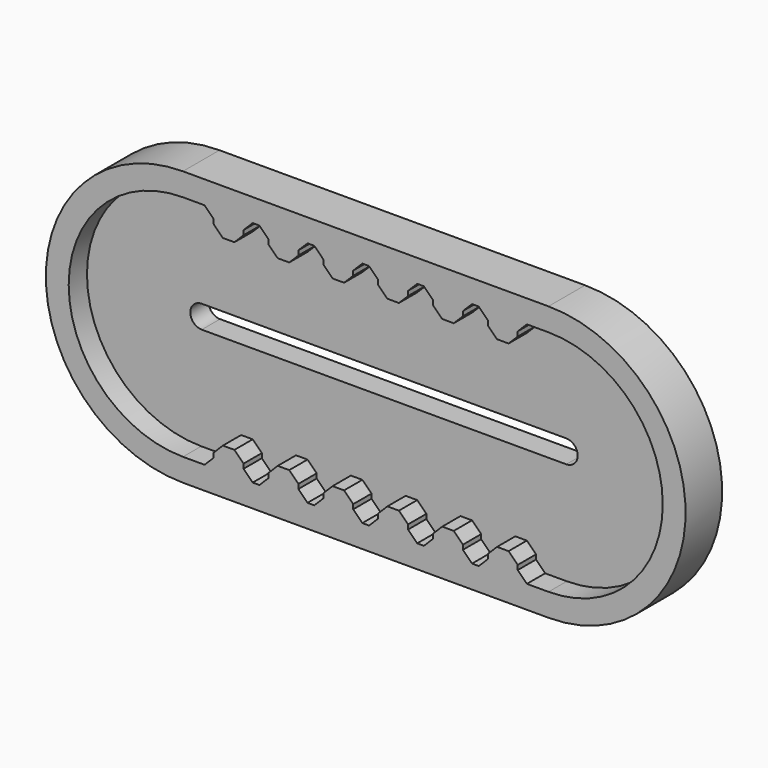
from build123d import *

# Parameters (mm, degrees)
F1_DEPTH = 6.35
F2_DEPTH = 12.7
F4_DEPTH = 6.35
F5_SIZE  = 2.54
F3_W     = 8.288401
F3_H     = 6.35
F6_DEPTH = 6.35
F7_SIZE  = 2.54


with BuildPart() as f1:
    # F0 (on Front) → F1 (new body)
    with BuildSketch(Plane.XZ):
        with BuildLine():
            Line((50.8, 31.75), (-50.8, 31.75))
            ThreePointArc((-50.8, 31.75), (-82.55, 0), (-50.8, -31.75))
            Line((-50.8, -31.75), (50.8, -31.75))
            ThreePointArc((50.8, -31.75), (82.55, 0), (50.8, 31.75))
        make_face()
        with BuildLine():
            ThreePointArc((-50.6538152695, -3.175), (-53.8288152695, 0), (-50.6538152695, 3.175))
            Line((-50.6538152695, 3.175), (50.6538152695, 3.175))
            ThreePointArc((50.6538152695, 3.175), (53.8288152695, 0), (50.6538152695, -3.175))
            Line((50.6538152695, -3.175), (-50.6538152695, -3.175))
        make_face(mode=Mode.SUBTRACT)
    extrude(amount=F1_DEPTH)

    # F0 (on Front) → F2 (join)
    with BuildSketch(Plane.XZ):
        with BuildLine():
            Line((50.8, 38.1), (-50.8, 38.1))
            ThreePointArc((-50.8, 38.1), (-88.9, 0), (-50.8, -38.1))
            Line((-50.8, -38.1), (50.8, -38.1))
            ThreePointArc((50.8, -38.1), (88.9, 0), (50.8, 38.1))
        make_face()
        with BuildLine():
            ThreePointArc((-50.8, -31.75), (-82.55, 0), (-50.8, 31.75))
            Line((-50.8, 31.75), (50.8, 31.75))
            ThreePointArc((50.8, 31.75), (82.55, 0), (50.8, -31.75))
            Line((50.8, -31.75), (-50.8, -31.75))
        make_face(mode=Mode.SUBTRACT)
    extrude(amount=F2_DEPTH)

    # F3 (on face) → F4 (join)
    with BuildSketch(Plane.XZ.offset(6.35)):
        Polygon((-38.1, -31.75), (-33.9557995, -31.75), (-33.9557995, -25.4), (-38.1, -25.4), (-42.2442005, -25.4), (-42.2442005, -31.75), align=None)
        Polygon((-27.0042005, -31.75), (-18.7157995, -31.75), (-18.7157995, -25.4), (-22.86, -25.4), (-27.0042005, -25.4), align=None)
        Polygon((-11.7515005, -31.75), (-3.4757995, -31.75), (-3.4757995, -25.4), (-7.62, -25.4), (-11.7515005, -25.4), align=None)
        Polygon((3.4757995, -25.4), (3.4757995, -31.75), (11.7642005, -31.75), (11.7642005, -25.4), (7.62, -25.4), align=None)
        Polygon((18.7157995, -25.4), (18.7157995, -31.75), (27.0042005, -31.75), (27.0042005, -25.4), (22.86, -25.4), align=None)
        Polygon((33.9557995, -25.4), (33.9557995, -31.75), (38.1, -31.75), (42.2442005, -31.75), (42.2442005, -25.4), (38.1, -25.4), align=None)
        Polygon((33.9557995, -25.4), (33.9557995, -31.75), (38.1, -31.75), (42.2442005, -31.75), (42.2442005, -25.4), (38.1, -25.4), align=None)
        Polygon((33.9557995, -25.4), (33.9557995, -31.75), (38.1, -31.75), (42.2442005, -31.75), (42.2442005, -25.4), (38.1, -25.4), align=None)
    extrude(amount=F4_DEPTH)

    # F5
    f5_edges = [f1.edges().sort_by_distance(p)[0] for p in [
        (-42.244201, -9.525, -25.4),
        (-33.9558, -9.525, -25.4),
        (-27.004201, -9.525, -25.4),
        (-18.7158, -9.525, -25.4),
        (-11.751501, -9.525, -25.4),
        (-3.4758, -9.525, -25.4),
        (3.475799, -9.525, -25.4),
        (11.7642, -9.525, -25.4),
        (18.715799, -9.525, -25.4),
        (27.0042, -9.525, -25.4),
        (33.9558, -9.525, -25.4),
        (42.244201, -9.525, -25.4),
        (33.9558, -9.525, -31.75),
        (42.244201, -9.525, -31.75),
        (27.0042, -9.525, -31.75),
        (11.7642, -9.525, -31.75),
        (18.715799, -9.525, -31.75),
        (3.475799, -9.525, -31.75),
        (-11.751501, -9.525, -31.75),
        (-27.004201, -9.525, -31.75),
        (-3.4758, -9.525, -31.75),
        (-18.7158, -9.525, -31.75),
        (-33.9558, -9.525, -31.75),
        (-42.244201, -9.525, -31.75),
    ]]
    chamfer(f5_edges, length=F5_SIZE)

    # F3 (on face) → F6 (join)
    with BuildSketch(Plane.XZ.offset(6.35)):
        with Locations((-38.1, 28.575)):
            Rectangle(F3_W, F3_H)
        with Locations((-22.86, 28.575)):
            Rectangle(F3_W, F3_H)
        Polygon((-3.4757995, 31.75), (-11.7515005, 31.75), (-11.7515005, 25.4), (-7.62, 25.4), (-3.4757995, 25.4), align=None)
        Polygon((11.7642005, 25.4), (11.7642005, 31.75), (3.4757995, 31.75), (3.4757995, 25.4), (7.62, 25.4), align=None)
        Polygon((27.0042005, 25.4), (27.0042005, 31.75), (18.7157995, 31.75), (18.7157995, 25.4), (22.86, 25.4), align=None)
        Polygon((42.2442005, 25.4), (42.2442005, 31.75), (33.9557995, 31.75), (33.9557995, 25.4), (38.1, 25.4), align=None)
    extrude(amount=F6_DEPTH)

    # F7
    f7_edges = [f1.edges().sort_by_distance(p)[0] for p in [
        (-42.244201, -9.525, 31.75),
        (-27.004201, -9.525, 31.75),
        (-42.244201, -9.525, 25.4),
        (-33.9558, -9.525, 25.4),
        (-33.955799, -9.525, 31.75),
        (-27.004201, -9.525, 25.4),
        (-18.7158, -9.525, 25.4),
        (-18.7158, -9.525, 31.75),
        (-11.751501, -9.525, 25.4),
        (-11.7515, -9.525, 31.75),
        (-3.4758, -9.525, 25.4),
        (3.475799, -9.525, 25.4),
        (11.7642, -9.525, 25.4),
        (18.715799, -9.525, 25.4),
        (27.0042, -9.525, 25.4),
        (33.9558, -9.525, 25.4),
        (42.244201, -9.525, 25.4),
        (42.244201, -9.525, 31.75),
        (27.0042, -9.525, 31.75),
        (11.764201, -9.525, 31.75),
        (18.7158, -9.525, 31.75),
        (33.9558, -9.525, 31.75),
        (-3.4758, -9.525, 31.75),
        (3.475799, -9.525, 31.75),
    ]]
    chamfer(f7_edges, length=F7_SIZE)


solid = f1.part
